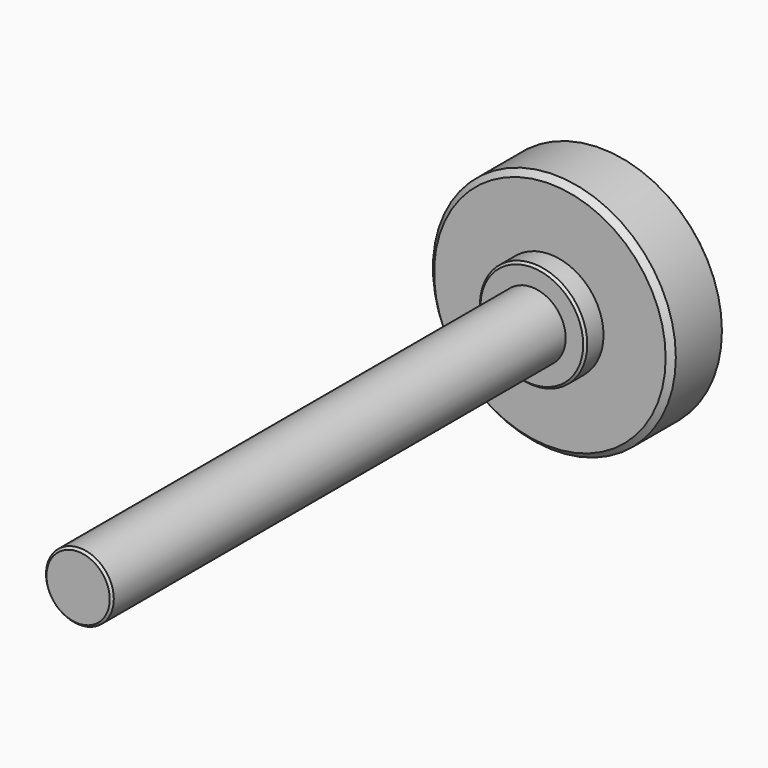
from build123d import *

# Parameters (mm, degrees)
F0_R     = 10.75
F1_DEPTH = 5.8
F2_R     = 4.75
F3_DEPTH = 2
F4_R     = 3
F5_DEPTH = 50.2
F6_R     = 3
F7_DEPTH = 5.2
F8_SIZE  = 0.5
F9_SIZE  = 0.2


with BuildPart() as f1:
    # F0 (on Front) → F1 (new body)
    with BuildSketch(Plane.XZ):
        Circle(F0_R)
    extrude(amount=F1_DEPTH)

    # F2 (on face) → F3 (join)
    with BuildSketch(Plane.XZ.offset(5.8)):
        Circle(F2_R)
    extrude(amount=F3_DEPTH)

    # F4 (on face) → F5 (join)
    with BuildSketch(Plane.XZ.offset(7.8)):
        Circle(F4_R)
    extrude(amount=F5_DEPTH)

    # F6 (on face) → F7 (join)
    with BuildSketch(Plane(origin=(0, 0, 0), x_dir=(-1, 0, 0), z_dir=(0, 1, 0))):
        Circle(F6_R)
    extrude(amount=F7_DEPTH)

    # F8
    f8_edges = [f1.edges().sort_by_distance(p)[0] for p in [
        (-10.75, -5.8, 0),
    ]]
    chamfer(f8_edges, length=F8_SIZE)

    # F9
    f9_edges = [f1.edges().sort_by_distance(p)[0] for p in [
        (-4.75, -7.8, 0),
        (-3, -58, 0),
        (3, 5.2, 0),
        (-10.75, 0, 0),
    ]]
    chamfer(f9_edges, length=F9_SIZE)


solid = f1.part
